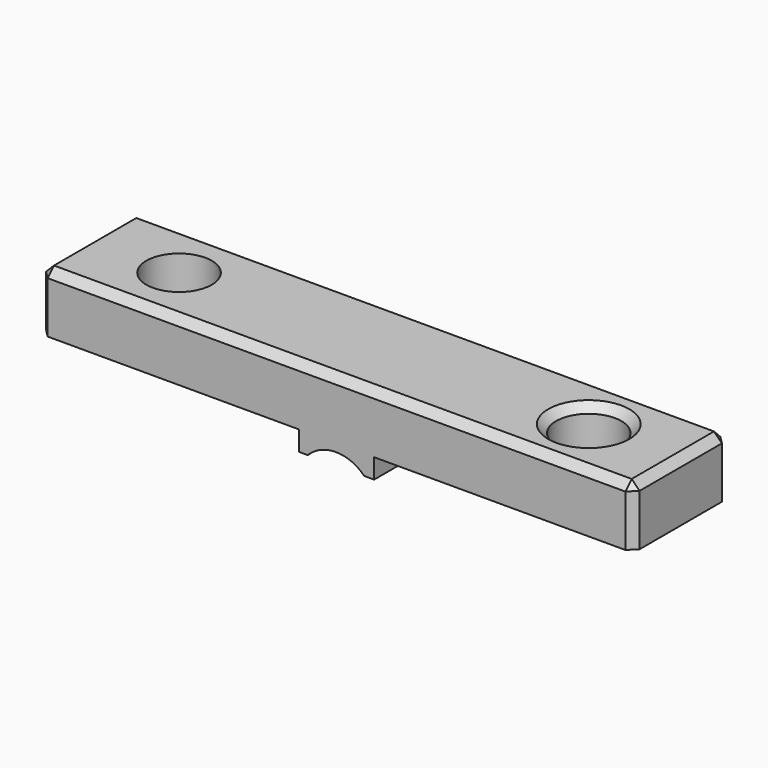
from build123d import *

# Parameters (mm, degrees)
BOX019_W           = 10
BOX019_H           = 10
BOX019_DEPTH       = 10
CYLINDER008_R      = 2
CYLINDER008_DEPTH  = 32
BOX013_W           = 3.8
BOX013_H           = 8
BOX013_DEPTH       = 4
CYLINDER010_R      = 1.65
CYLINDER010_DEPTH  = 30
CYLINDER009_R      = 1.65
CYLINDER009_DEPTH  = 30
BOX012_W           = 30
BOX012_H           = 6
BOX012_DEPTH       = 3
CHAMFER002004_SIZE = 0.4


with BuildPart() as cube019:
    # Box019 → Box019 (new body)
    with BuildSketch(Plane(origin=(30, 23, 8), x_dir=(1, 0, 0), z_dir=(0, 0, 1))):
        with Locations((5, 5)):
            Rectangle(BOX019_W, BOX019_H)
    extrude(amount=BOX019_DEPTH)


with BuildPart() as obj1:
    # Cylinder008 → Cylinder008 (new body)
    with BuildSketch(Plane(origin=(35.85, 27, 10.6), x_dir=(1, 0, 0), z_dir=(0, -1, 0))):
        Circle(CYLINDER008_R)
    extrude(amount=CYLINDER008_DEPTH)


with BuildPart() as cut001012003011002008006003:
    # Box013 → Box013 (new body)
    with BuildSketch(Plane(origin=(33.98, 16, 12), x_dir=(1, 0, 0), z_dir=(0, 0, 1))):
        with Locations((1.9, 4)):
            Rectangle(BOX013_W, BOX013_H)
    extrude(amount=BOX013_DEPTH)

    # Cut001008: cut obj1
    add(obj1.part, mode=Mode.SUBTRACT)


with BuildPart() as cut001012003011002008006003_1:
    # Cut001008 placement: moved
    add(cut001012003011002008006003.part.moved(Location((0, 1, 0))))

    # Cut001012003011002008006003: cut Cube019
    add(cube019.part, mode=Mode.SUBTRACT)


with BuildPart() as cylinder003:
    # Cylinder010 → Cylinder010 (new body)
    with BuildSketch(Plane(origin=(46.23, 20, 0), x_dir=(1, 0, 0), z_dir=(0, 0, 1))):
        Circle(CYLINDER010_R)
    extrude(amount=CYLINDER010_DEPTH)


with BuildPart() as fusion002005:
    # Cylinder009 → Cylinder009 (new body)
    with BuildSketch(Plane(origin=(25.52, 20, 0), x_dir=(1, 0, 0), z_dir=(0, 0, 1))):
        Circle(CYLINDER009_R)
    extrude(amount=CYLINDER009_DEPTH)

    # Fusion002005: union Cylinder003
    add(cylinder003.part)


with BuildPart() as cutter_cap:
    # Box012 → Box012 (new body)
    with BuildSketch(Plane(origin=(20.88, 17, 13), x_dir=(1, 0, 0), z_dir=(0, 0, 1))):
        with Locations((15, 3)):
            Rectangle(BOX012_W, BOX012_H)
    extrude(amount=BOX012_DEPTH)

    # Cut001012003011002008006004: cut Fusion002005
    add(fusion002005.part, mode=Mode.SUBTRACT)

    # Fusion002009: union Cut001012003011002008006003
    add(cut001012003011002008006003_1.part)

    # Chamfer002004
    chamfer002004_edges = [cutter_cap.edges().sort_by_distance(p)[0] for p in [
        (20.88, 17, 14.5),
        (20.88, 20, 16),
        (20.88, 23, 14.5),
        (27.43, 17, 16),
        (27.43, 23, 16),
        (35.88, 17, 16),
        (35.88, 23, 16),
        (50.88, 17, 14.5),
        (44.33, 17, 16),
        (44.33, 23, 16),
        (50.88, 20, 16),
        (44.58, 20, 16),
        (50.88, 23, 14.5),
    ]]
    chamfer(chamfer002004_edges, length=CHAMFER002004_SIZE)


with BuildPart() as cutter_cap_1:
    # Chamfer002004 placement: moved
    add(cutter_cap.part.moved(Location((0, -1, 0))))


solid = cutter_cap_1.part
